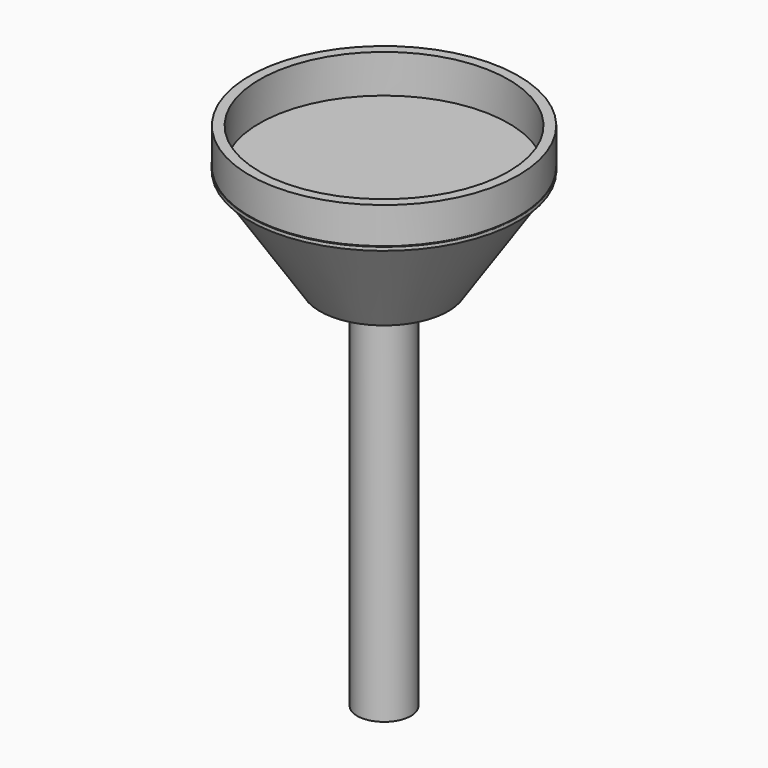
from build123d import *

# Parameters (mm, degrees)
F0_R     = 2
F1_DEPTH = 35
F2_R     = 10
F3_DEPTH = 3


with BuildPart() as f1:
    # F0 (on Top) → F1 (new body)
    with BuildSketch(Plane.XY):
        Circle(F0_R)
    extrude(amount=F1_DEPTH)

    # F2 (on face) → F3 (join)
    with BuildSketch(Plane.XY.offset(35)):
        Circle(F2_R)
    extrude(amount=F3_DEPTH)

    # F5 (on Right) → F6 (revolve)
    with BuildSketch(Plane.YZ):
        Polygon((0, 31.303294), (0, 35.309382), (-10.035225, 35.309382), (-4.777231, 27.397355), (0, 27.247125), align=None)
    revolve(axis=Axis((0, 0, 31.278254), (0, 0, -1)))

    # F7 (on Front) → F8 (revolve, cut)
    with BuildSketch(Plane.XZ):
        Polygon((9.262677, 40.559426), (0, 38.892001), (0, 35.140295), (9.262677, 35.140295), align=None)
    revolve(axis=Axis((0, 0, 37.016148), (0, 0, -1)), mode=Mode.SUBTRACT)


solid = f1.part
